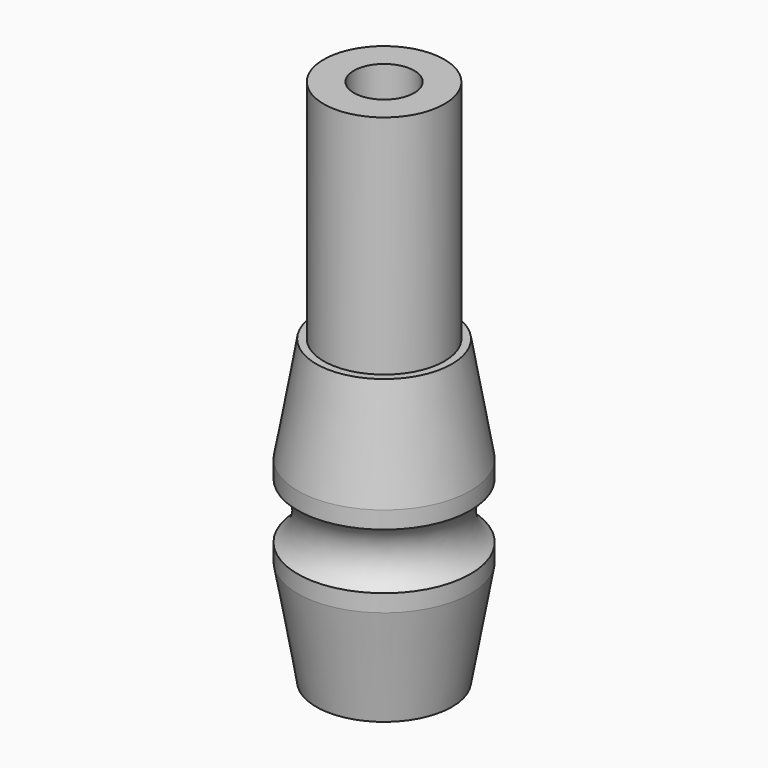
from build123d import *


with BuildPart() as f1:
    # F0 (on Front) → F1 (revolve)
    with BuildSketch(Plane.XZ):
        with BuildLine():
            Line((4.5, 0), (5.725, 7))
            Line((5.725, 7), (5.725, 8.146119))
            ThreePointArc((5.725, 8.146119), (4.75, 10), (5.725, 11.853881))
            Line((5.725, 11.853881), (5.725, 13))
            Line((5.725, 13), (4.5, 20))
            Line((4.5, 20), (4, 20))
            Line((4, 20), (4, 35))
            Line((4, 35), (2, 35))
            Line((2, 35), (2, 0))
            Line((2, 0), (4.5, 0))
        make_face()
    revolve(axis=Axis((0, 0, 8.881353), (0, 0, 1)))


solid = f1.part
